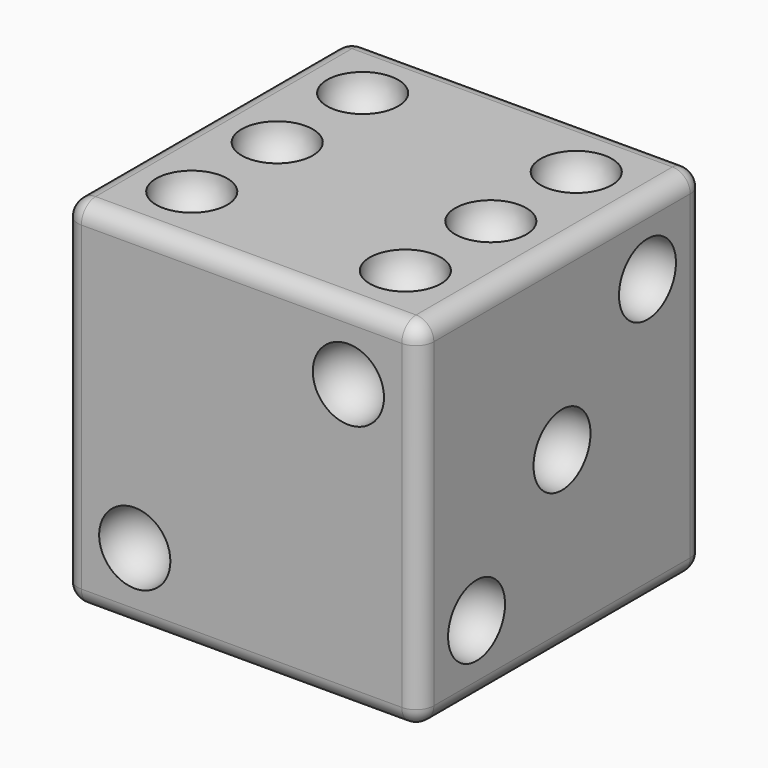
from build123d import *

# Parameters (mm, degrees)
ARRAY004_X_COUNT         = 2
ARRAY004_X_PITCH         = 12
ARRAY004_Y_COUNT         = 2
ARRAY004_Y_PITCH         = 12
FUSION_PLACEMENT_ANGLE   = 90
ARRAY002_X_COUNT         = 3
ARRAY002_X_PITCH         = 8.485281
ARRAY002_PLACEMENT_ANGLE = 270
ARRAY001_X_COUNT         = 2
ARRAY001_X_PITCH         = 12
ARRAY001_Y_COUNT         = 2
ARRAY001_Y_PITCH         = 12
ARRAY001_PLACEMENT_ANGLE = 90
ARRAY_X_COUNT            = 3
ARRAY_X_PITCH            = 6
ARRAY_Y_COUNT            = 2
ARRAY_Y_PITCH            = 12
ARRAY_PLACEMENT_ANGLE    = 90
ARRAY003_X_COUNT         = 2
ARRAY003_X_PITCH         = 16.970563
ARRAY003_PLACEMENT_ANGLE = 90
BOX_W                    = 20
BOX_H                    = 20
BOX_DEPTH                = 20
FILLET_R                 = 1


with BuildPart() as cuatro001:
    # Sphere006 → Sphere006 (revolve)
    with BuildSketch(Plane.XZ):
        with BuildLine():
            ThreePointArc((0, -2), (2, 0), (0, 2))
            Line((0, 2), (0, -2))
        make_face()
    revolve(axis=Axis((0, 0, 0), (0, 0, 1)))

    # Array004 X: cuatro001 ×2


with BuildPart() as cuatro001_1:
    add(cuatro001.part)
    with Locations(*[(i * ARRAY004_X_PITCH, 0, 0) for i in range(1, ARRAY004_X_COUNT)]):
        add(cuatro001.part)

    # Array004 Y: cuatro001 ×2


with BuildPart() as cuatro001_2:
    add(cuatro001_1.part)
    with Locations(*[(0, i * ARRAY004_Y_PITCH, 0) for i in range(1, ARRAY004_Y_COUNT)]):
        add(cuatro001_1.part)


with BuildPart() as cuatro001_3:
    # Array004 placement: moved
    add(cuatro001_2.part.moved(Location((4, 4, 20))))


with BuildPart() as cinco:
    # Sphere005 → Sphere005 (revolve)
    with BuildSketch(Plane(origin=(10, 10, 20), x_dir=(1, 0, 0), z_dir=(0, -1, 0))):
        with BuildLine():
            ThreePointArc((0, -2), (2, 0), (0, 2))
            Line((0, 2), (0, -2))
        make_face()
    revolve(axis=Axis((10, 10, 20), (0, 0, 1)))

    # Fusion: union cuatro001
    add(cuatro001_3.part)


with BuildPart() as cinco_1:
    # Fusion placement: moved
    add(cinco.part.moved(Location((0, 40, 0))).rotate(Axis((0, 40, 0), (1, 0, 0)), FUSION_PLACEMENT_ANGLE))


with BuildPart() as uno:
    # Sphere004 → Sphere004 (revolve)
    with BuildSketch(Plane(origin=(10, 10, 0), x_dir=(1, 0, 0), z_dir=(0, -1, 0))):
        with BuildLine():
            ThreePointArc((0, -2), (2, 0), (0, 2))
            Line((0, 2), (0, -2))
        make_face()
    revolve(axis=Axis((10, 10, 0), (0, 0, 1)))


with BuildPart() as tres:
    # Sphere002 → Sphere002 (revolve)
    with BuildSketch(Plane.XZ):
        with BuildLine():
            ThreePointArc((0, -2), (2, 0), (0, 2))
            Line((0, 2), (0, -2))
        make_face()
    revolve(axis=Axis((0, 0, 0), (0, 0, 1)))

    # Array002 X: tres ×3


with BuildPart() as tres_1:
    add(tres.part)
    with Locations(*[Vector(0.707107, 0.707107, 0) * (i * ARRAY002_X_PITCH) for i in range(1, ARRAY002_X_COUNT)]):
        add(tres.part)


with BuildPart() as tres_2:
    # Array002 placement: moved
    add(tres_1.part.moved(Location((20, 4, 4))).rotate(Axis((20, 4, 4), (0, 1, 0)), ARRAY002_PLACEMENT_ANGLE))


with BuildPart() as cuatro:
    # Sphere001 → Sphere001 (revolve)
    with BuildSketch(Plane.XZ):
        with BuildLine():
            ThreePointArc((0, -2), (2, 0), (0, 2))
            Line((0, 2), (0, -2))
        make_face()
    revolve(axis=Axis((0, 0, 0), (0, 0, 1)))

    # Array001 X: cuatro ×2


with BuildPart() as cuatro_1:
    add(cuatro.part)
    with Locations(*[(i * ARRAY001_X_PITCH, 0, 0) for i in range(1, ARRAY001_X_COUNT)]):
        add(cuatro.part)

    # Array001 Y: cuatro ×2


with BuildPart() as cuatro_2:
    add(cuatro_1.part)
    with Locations(*[(0, i * ARRAY001_Y_PITCH, 0) for i in range(1, ARRAY001_Y_COUNT)]):
        add(cuatro_1.part)


with BuildPart() as cuatro_3:
    # Array001 placement: moved
    add(cuatro_2.part.moved(Location((0, 4, 16))).rotate(Axis((0, 4, 16), (0, 1, 0)), ARRAY001_PLACEMENT_ANGLE))


with BuildPart() as seis:
    # Sphere → Sphere (revolve)
    with BuildSketch(Plane.XZ):
        with BuildLine():
            ThreePointArc((0, -2), (2, 0), (0, 2))
            Line((0, 2), (0, -2))
        make_face()
    revolve(axis=Axis((0, 0, 0), (0, 0, 1)))

    # Array X: seis ×3


with BuildPart() as seis_1:
    add(seis.part)
    with Locations(*[(i * ARRAY_X_PITCH, 0, 0) for i in range(1, ARRAY_X_COUNT)]):
        add(seis.part)

    # Array Y: seis ×2


with BuildPart() as seis_2:
    add(seis_1.part)
    with Locations(*[(0, i * ARRAY_Y_PITCH, 0) for i in range(1, ARRAY_Y_COUNT)]):
        add(seis_1.part)


with BuildPart() as seis_3:
    # Array placement: moved
    add(seis_2.part.moved(Location((16, 4, 20))).rotate(Axis((16, 4, 20), (0, 0, 1)), ARRAY_PLACEMENT_ANGLE))


with BuildPart() as obj1:
    # Sphere003 → Sphere003 (revolve)
    with BuildSketch(Plane.XZ):
        with BuildLine():
            ThreePointArc((0, -2), (2, 0), (0, 2))
            Line((0, 2), (0, -2))
        make_face()
    revolve(axis=Axis((0, 0, 0), (0, 0, 1)))

    # Array003 X: obj1_2


with BuildPart() as obj1_1:
    add(obj1.part)
    with Locations(*[Vector(0.707107, 0.707107, 0) * (i * ARRAY003_X_PITCH) for i in range(1, ARRAY003_X_COUNT)]):
        add(obj1.part)


with BuildPart() as obj1_2:
    # Array003 placement: moved
    add(obj1_1.part.moved(Location((4, 0, 4))).rotate(Axis((4, 0, 4), (1, 0, 0)), ARRAY003_PLACEMENT_ANGLE))

    # Fusion001: union cinco, uno, tres, cuatro, seis
    add(cinco_1.part)
    add(uno.part)
    add(tres_2.part)
    add(cuatro_3.part)
    add(seis_3.part)


with BuildPart() as dado:
    # Box → Box (new body)
    with BuildSketch(Plane.XY):
        with Locations((10, 10)):
            Rectangle(BOX_W, BOX_H)
    extrude(amount=BOX_DEPTH)

    # Fillet
    fillet_edges = [dado.edges().sort_by_distance(p)[0] for p in [
        (0, 0, 10),
        (0, 10, 20),
        (0, 20, 10),
        (0, 10, 0),
        (20, 0, 10),
        (20, 10, 20),
        (20, 20, 10),
        (20, 10, 0),
        (10, 0, 0),
        (10, 0, 20),
        (10, 20, 0),
        (10, 20, 20),
    ]]
    fillet(fillet_edges, radius=FILLET_R)

    # Cut: cut obj1
    add(obj1_2.part, mode=Mode.SUBTRACT)


solid = dado.part
